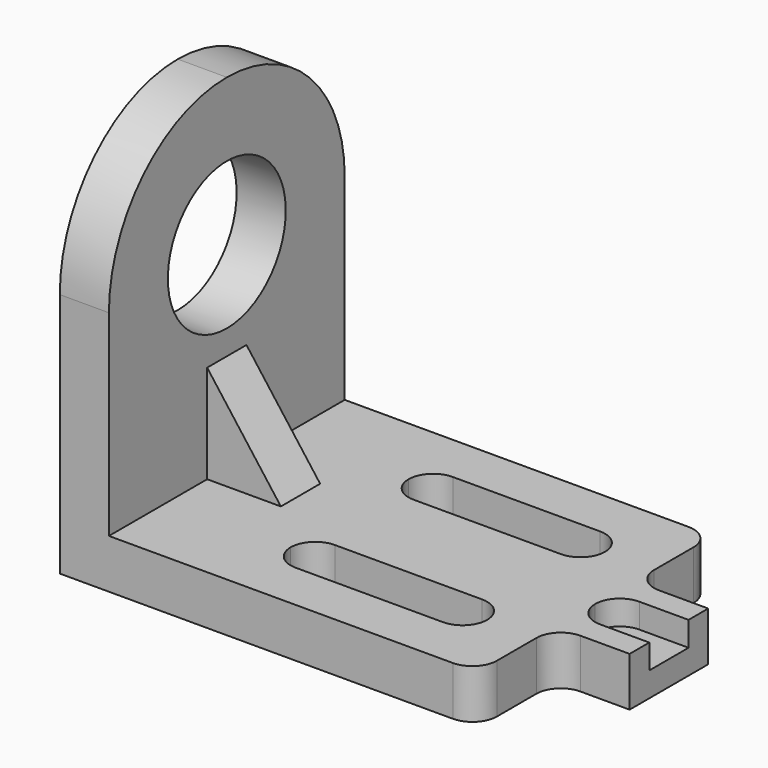
from build123d import *

# Parameters (mm, degrees)
F1_DEPTH = 76.2
F2_DEPTH = 12.7
F4_DEPTH = 1270
F6_DEPTH = 70.612
F7_START = -12.7
F7_DEPTH = 43.434


with BuildPart() as f1:
    # F0 (on Front) → F1 (new body, symmetric)
    with BuildSketch(Plane.XZ):
        Polygon((0, 203.2), (0, 0), (254, 0), (254, 25.4), (63.5, 25.4), (25.4, 25.4), (25.4, 76.2), (25.4, 203.2), align=None)
    extrude(amount=F1_DEPTH, both=True)

    # F0 (on Front) → F2 (join, symmetric)
    with BuildSketch(Plane.XZ):
        Polygon((63.5, 25.4), (25.4, 76.2), (25.4, 25.4), align=None)
    extrude(amount=F2_DEPTH, both=True)

    # F3 (on face) → F4 (cut, symmetric)
    with BuildSketch(Plane(origin=(0, 0, 0), x_dir=(0, -1, 0), z_dir=(-1, 0, 0))):
        with BuildLine():
            Line((-76.2, 203.2), (-76.2, 127))
            ThreePointArc((-76.2, 127), (-53.8815367264, 180.8815367264), (0, 203.2))
            Line((0, 203.2), (-76.2, 203.2))
        make_face()
        with BuildLine():
            Line((76.2, 203.2), (0, 203.2))
            ThreePointArc((0, 203.2), (53.8815367264, 180.8815367264), (76.2, 127))
            Line((76.2, 127), (76.2, 203.2))
        make_face()
        with BuildLine():
            ThreePointArc((38.1, 127), (-26.9407683632, 153.9407683632), (0, 88.9))
            ThreePointArc((0, 88.9), (26.9407683632, 100.0592316368), (38.1, 127))
        make_face()
    extrude(amount=F4_DEPTH, both=True, mode=Mode.SUBTRACT)

    # F5 (on face) → F6 (cut)
    with BuildSketch(Plane(origin=(0, 0, 0), x_dir=(1, 0, 0), z_dir=(0, 0, -1))):
        with BuildLine():
            ThreePointArc((203.2, 76.2), (212.1802561211, 72.4802561211), (215.9, 63.5))
            Line((215.9, 63.5), (215.9, 38.1))
            ThreePointArc((215.9, 38.1), (219.6197438789, 29.1197438789), (228.6, 25.4))
            Line((228.6, 25.4), (241.3, 25.4))
            Line((241.3, 25.4), (254, 25.4))
            Line((254, 25.4), (254, 76.2))
            Line((254, 76.2), (203.2, 76.2))
        make_face()
        with BuildLine():
            ThreePointArc((88.9, 38.1), (92.6197438789, 29.1197438789), (101.6, 25.4))
            Line((101.6, 25.4), (177.8, 25.4))
            ThreePointArc((177.8, 25.4), (186.7802561211, 29.1197438789), (190.5, 38.1))
            ThreePointArc((190.5, 38.1), (186.7802561211, 47.0802561211), (177.8, 50.8))
            Line((177.8, 50.8), (101.6, 50.8))
            ThreePointArc((101.6, 50.8), (92.6197438789, 47.0802561211), (88.9, 38.1))
        make_face()
        with BuildLine():
            ThreePointArc((101.6, -25.4), (92.6197438789, -29.1197438789), (88.9, -38.1))
            ThreePointArc((88.9, -38.1), (92.6197438789, -47.0802561211), (101.6, -50.8))
            Line((101.6, -50.8), (177.8, -50.8))
            ThreePointArc((177.8, -50.8), (186.7802561211, -47.0802561211), (190.5, -38.1))
            ThreePointArc((190.5, -38.1), (186.7802561211, -29.1197438789), (177.8, -25.4))
            Line((177.8, -25.4), (101.6, -25.4))
        make_face()
        with BuildLine():
            Line((254, -25.4), (241.3, -25.4))
            Line((241.3, -25.4), (228.6, -25.4))
            ThreePointArc((228.6, -25.4), (219.6197438789, -29.1197438789), (215.9, -38.1))
            Line((215.9, -38.1), (215.9, -63.5))
            ThreePointArc((215.9, -63.5), (212.1802561211, -72.4802561211), (203.2, -76.2))
            Line((203.2, -76.2), (254, -76.2))
            Line((254, -76.2), (254, -25.4))
        make_face()
    extrude(amount=-F6_DEPTH, mode=Mode.SUBTRACT)

    # F5 (on face) → F7 (cut)
    with BuildSketch(Plane(origin=(0, 0, 0), x_dir=(1, 0, 0), z_dir=(0, 0, -1)).offset(F7_START)):
        with BuildLine():
            Line((254, 0), (254, 12.7))
            Line((254, 12.7), (228.6, 12.7))
            ThreePointArc((228.6, 12.7), (219.6197438789, 8.9802561211), (215.9, 0))
            ThreePointArc((215.9, 0), (219.6197438789, -8.9802561211), (228.6, -12.7))
            Line((228.6, -12.7), (254, -12.7))
            Line((254, -12.7), (254, 0))
        make_face()
    extrude(amount=-F7_DEPTH, mode=Mode.SUBTRACT)


solid = f1.part
